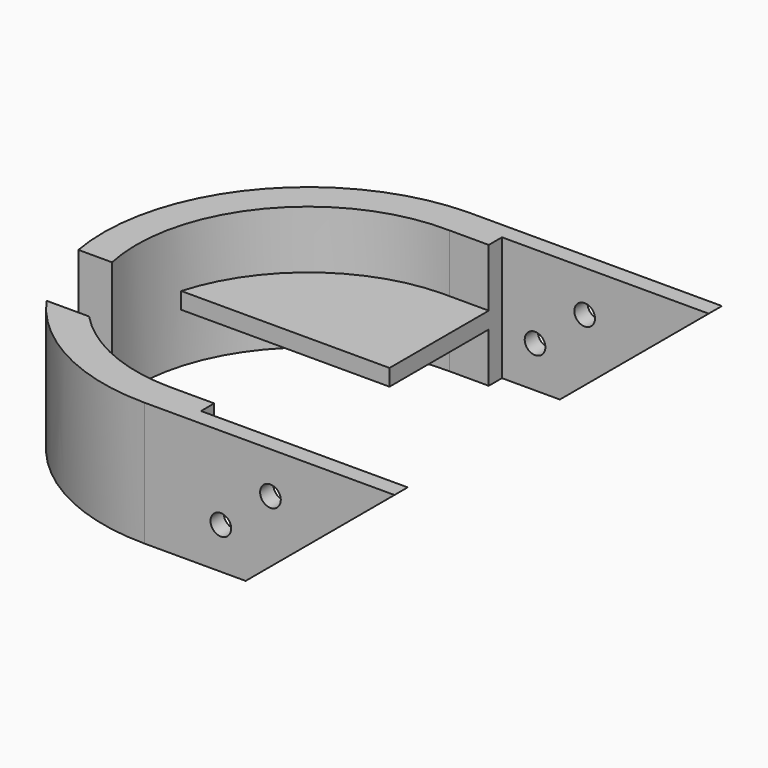
from build123d import *

# Parameters (mm, degrees)
F1_DEPTH = 15
F4_DEPTH = 2
F5_R     = 1.25
F6_DEPTH = 300
F7_W     = 10
F7_H     = 15
F8_DEPTH = 55.001


with BuildPart() as f1:
    # F0 (on Top) → F1 (new body)
    with BuildSketch(Plane.XY):
        with BuildLine():
            Line((0, -2), (0, 0))
            Line((0, 0), (-30.789843, 0))
            ThreePointArc((-30.789843, 0), (-54.998512, -25.01845), (-30.247024, -49.5))
            Line((-30.247024, -49.5), (0, -49.5))
            Line((0, -49.5), (0, -47.5))
            Line((0, -47.5), (-25, -47.5))
            Line((-25, -47.5), (-25, -45.5))
            Line((-25, -45.5), (-30.247024, -45.5))
            ThreePointArc((-30.247024, -45.5), (-50.998512, -24.498494), (-29.75, -4))
            Line((-29.75, -4), (-25, -4))
            Line((-25, -4), (-25, -2))
            Line((-25, -2), (0, -2))
        make_face()
    extrude(amount=F1_DEPTH)

    # F3 (on offset) → F4 (join)
    with BuildSketch(Plane.XY.offset(6)):
        Polygon((-25, -45.5), (-25, -39), (-50.484674, -39), (-43.738644, -45.5), align=None)
        Polygon((-25, -19), (-25, -4), (-43.747796, -4), (-54.323601, -19), align=None)
    extrude(amount=F4_DEPTH)

    # F5 (on face) → F6 (cut, symmetric)
    with BuildSketch(Plane(origin=(0, 0, 0), x_dir=(-1, 0, 0), z_dir=(0, 1, 0))):
        Polygon((0, 0), (17.999726, 0), (0, 15), align=None)
        with Locations((15, 10)):
            Circle(F5_R)
        with Locations((21, 5)):
            Circle(F5_R)
    extrude(amount=F6_DEPTH, both=True, mode=Mode.SUBTRACT)

    # F7 (on Right) → F8 (cut, through all)
    with BuildSketch(Plane.YZ):
        with Locations((-34, 7.5)):
            Rectangle(F7_W, F7_H)
    extrude(amount=-F8_DEPTH, mode=Mode.SUBTRACT)


solid = f1.part
